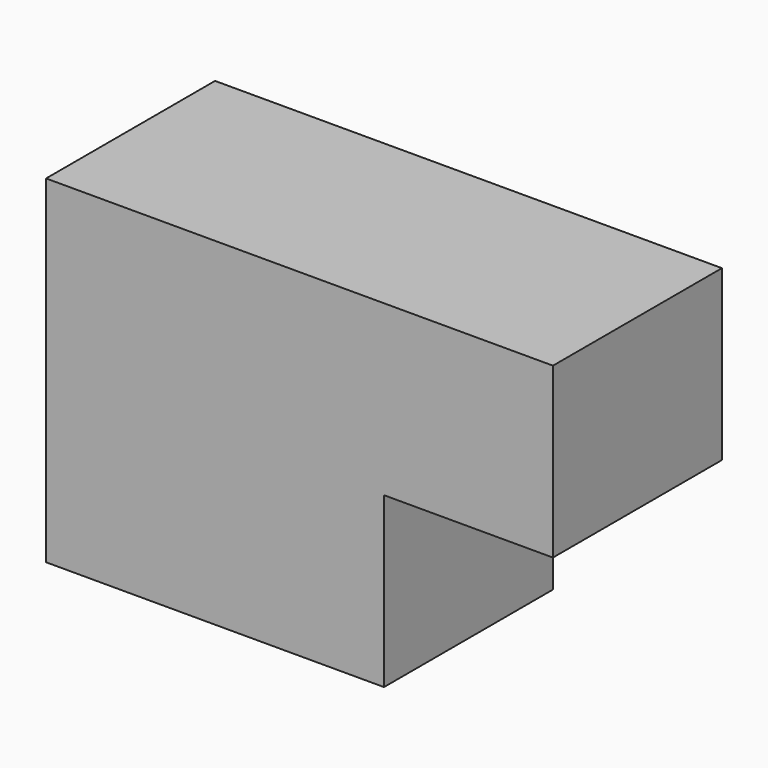
from build123d import *

# Parameters (mm, degrees)
F0_W     = 20
F0_H     = 20
F1_DEPTH = 25


with BuildPart() as f1:
    # F0 (on Front) → F1 (new body)
    with BuildSketch(Plane.XZ):
        with Locations((10, -10)):
            Rectangle(F0_W, F0_H)
        with Locations((10, 10)):
            Rectangle(F0_W, F0_H)
        Polygon((20, 20), (20, 0), (20, -20), (40, -20), (40, 0), (40, 20), align=None)
        with Locations((50, 10)):
            Rectangle(F0_W, F0_H)
    extrude(amount=F1_DEPTH)


solid = f1.part
